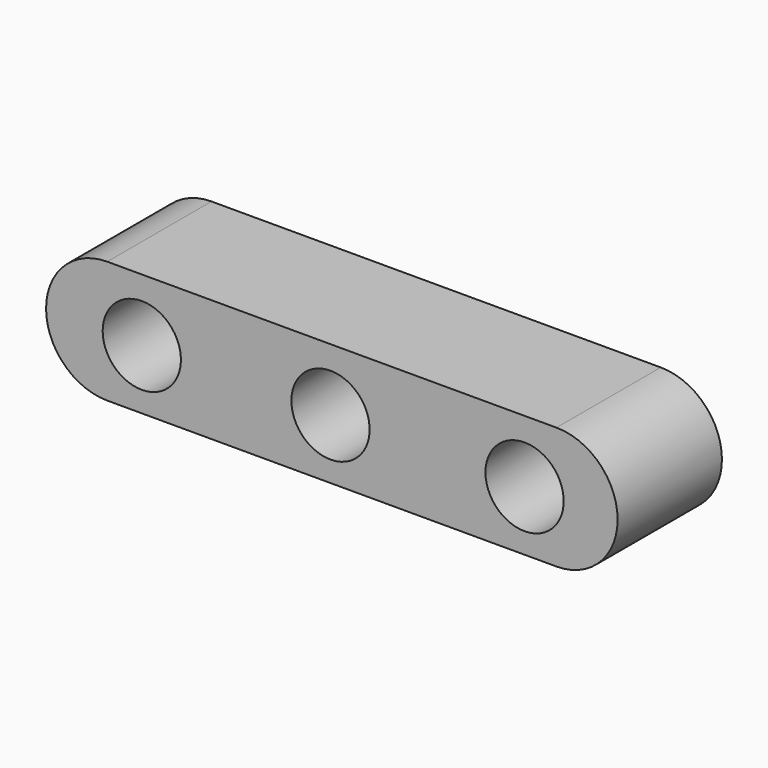
from build123d import *

# Parameters (mm, degrees)
F0_R     = 9.44458633
F1_DEPTH = 25.4
F2_D     = 15.24
F3_D     = 15.24
F4_D     = 15.24


with BuildPart() as f1:
    # F0 (on Front) → F1 (new body)
    with BuildSketch(Plane.XZ):
        with BuildLine():
            Line((44.0184436738, 12.1698062867), (-43.5005836189, 12.1698062867))
            ThreePointArc((-43.5005836189, 12.1698062867), (-55.4114580154, 0.2589318901), (-43.5005836189, -11.6519425064))
            Line((-43.5005836189, -11.6519425064), (44.0184436738, -11.6519425064))
            ThreePointArc((44.0184436738, -11.6519425064), (55.9293180704, 0.2589318901), (44.0184436738, 12.1698062867))
        make_face()
        with Locations((-36.7683507502, 0)):
            Circle(F0_R, mode=Mode.SUBTRACT)
        Circle(F0_R, mode=Mode.SUBTRACT)
        with Locations((37.8040745854, 0)):
            Circle(F0_R, mode=Mode.SUBTRACT)
        with Locations((-36.7683507502, 0)):
            Circle(F0_R)
        Circle(F0_R)
        with Locations((37.8040745854, 0)):
            Circle(F0_R)
    extrude(amount=F1_DEPTH)

    # F2 (through all)
    with Locations(Plane(origin=(0, 0, 0), x_dir=(1, 0, 0), z_dir=(0, 1, 0))):
        with Locations((-36.7683507502, 0)):
            Hole(F2_D / 2)

    # F3 (through all)
    with Locations(Plane(origin=(0, 0, 0), x_dir=(1, 0, 0), z_dir=(0, 1, 0))):
        with Locations((0, 0)):
            Hole(F3_D / 2)

    # F4 (through all)
    with Locations(Plane(origin=(0, 0, 0), x_dir=(1, 0, 0), z_dir=(0, 1, 0))):
        with Locations((37.8040745854, 0)):
            Hole(F4_D / 2)


solid = f1.part
